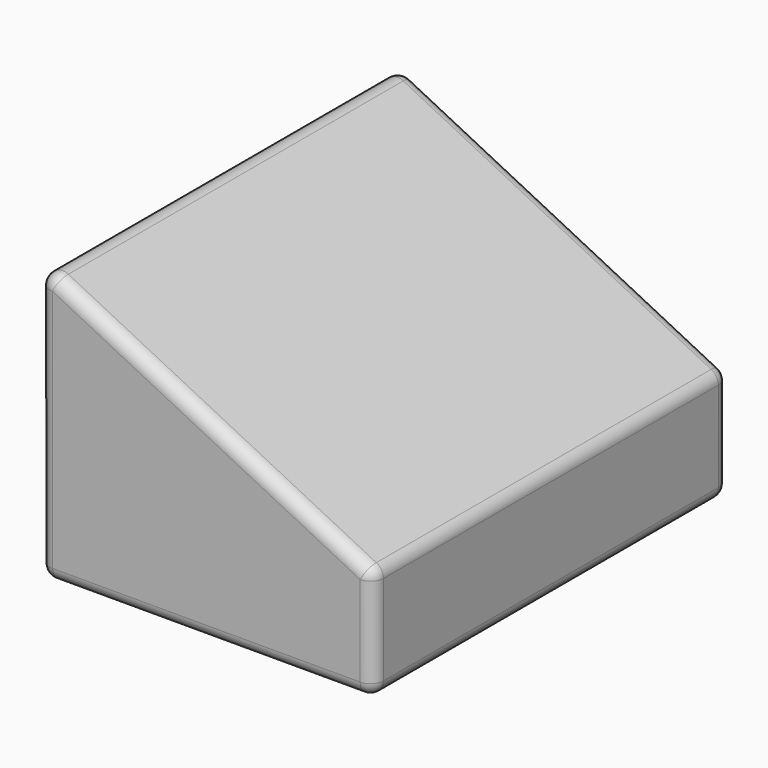
from build123d import *

# Parameters (mm, degrees)
F1_DEPTH = 101.6
F2_R     = 5.901296


with BuildPart() as f1:
    # F0 (on Front) → F1 (new body, symmetric)
    with BuildSketch(Plane.XZ):
        Polygon((-76.161246, 0), (76.238754, 0), (76.238754, 50.8), (-76.378289, 127), align=None)
    extrude(amount=F1_DEPTH, both=True)

    # F2
    f2_edges = [f1.edges().sort_by_distance(p)[0] for p in [
        (-0.069767, 101.6, 88.9),
        (-76.378289, 0, 127),
        (-0.069767, -101.6, 88.9),
        (76.238754, 0, 50.8),
        (76.238754, 101.6, 25.4),
        (76.238754, -101.6, 25.4),
        (76.238754, 0, 0),
        (-76.161246, 0, 0),
        (0.038754, 101.6, 0),
        (0.038754, -101.6, 0),
        (-76.269767, 101.6, 63.5),
        (-76.269767, -101.6, 63.5),
    ]]
    fillet(f2_edges, radius=F2_R)


solid = f1.part
